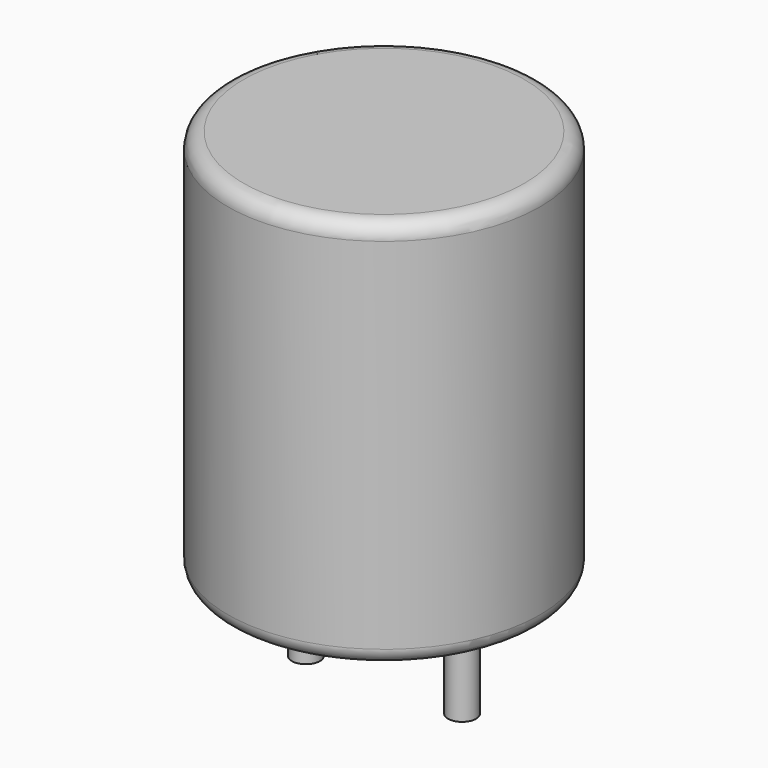
from build123d import *

# Parameters (mm, degrees)
SKETCH001_R       = 0.45
PAD001_DEPTH      = 6.25
PAD001_DEPTH_BACK = 3.5
SKETCH_R          = 5
PAD_DEPTH         = 12.5
FILLET_R          = 0.5


with BuildPart() as pad001:
    # Sketch001 → Pad001 (new body, two sides)
    with BuildSketch(Plane.XY.offset(0.5)) as pad001_sk:
        Circle(SKETCH001_R)
        with Locations((5, 0)):
            Circle(SKETCH001_R)
    extrude(amount=PAD001_DEPTH)
    extrude(pad001_sk.sketch, amount=-PAD001_DEPTH_BACK)


with BuildPart() as obj1:
    # Sketch → Pad (new body)
    with BuildSketch(Plane.XY.offset(0.1)):
        with Locations((2.5, 0)):
            Circle(SKETCH_R)
    extrude(amount=PAD_DEPTH)

    # Fillet
    fillet_edges = [obj1.edges().sort_by_distance(p)[0] for p in [
        (-2.5, 0, 0.1),
        (-2.5, 0, 12.6),
    ]]
    fillet(fillet_edges, radius=FILLET_R)

    # obj1: union Pad001
    add(pad001.part)


solid = obj1.part
